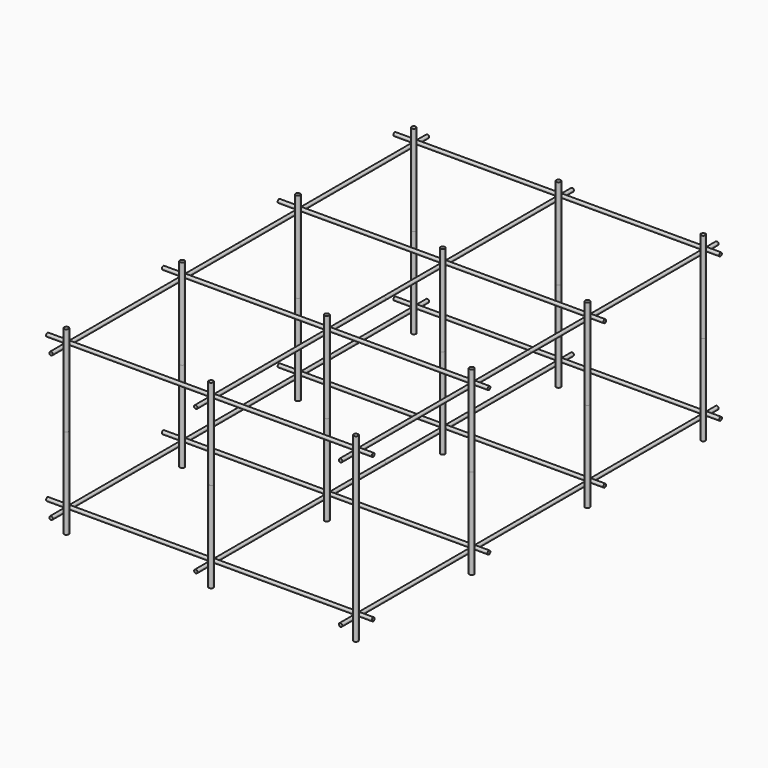
from build123d import *

# Parameters (mm, degrees)
F0_R     = 2.38125
F1_DEPTH = 325
F2_R     = 2.38125
F3_DEPTH = 225
F4_R     = 3.175
F5_DEPTH = 125


with BuildPart() as f1:
    # F0 (on Front) → F1 (new body, symmetric)
    with BuildSketch(Plane.XZ):
        with Locations((-200, 100)):
            Circle(F0_R)
        with Locations((0, 100)):
            Circle(F0_R)
        with Locations((200, 100)):
            Circle(F0_R)
        with Locations((200, -100)):
            Circle(F0_R)
        with Locations((0, -100)):
            Circle(F0_R)
        with Locations((-200, -100)):
            Circle(F0_R)
    extrude(amount=F1_DEPTH, both=True)


with BuildPart() as f3:
    # F2 (on Right) → F3 (new body, symmetric)
    with BuildSketch(Plane.YZ):
        with Locations((-300, 104.7625)):
            Circle(F2_R)
        with Locations((-100, 104.7625)):
            Circle(F2_R)
        with Locations((100, 104.7625)):
            Circle(F2_R)
        with Locations((300, 104.7625)):
            Circle(F2_R)
        with Locations((300, -95.2375)):
            Circle(F2_R)
        with Locations((100, -95.2375)):
            Circle(F2_R)
        with Locations((-100, -95.2375)):
            Circle(F2_R)
        with Locations((-300, -95.2375)):
            Circle(F2_R)
    extrude(amount=F3_DEPTH, both=True)


with BuildPart() as f5:
    # F4 (on Top) → F5 (new body, symmetric)
    with BuildSketch(Plane.XY):
        with Locations((-194.44375, 294.44375)):
            Circle(F4_R)
        with Locations((5.55625, 294.44375)):
            Circle(F4_R)
        with Locations((-194.44375, 94.44375)):
            Circle(F4_R)
        with Locations((5.55625, 94.44375)):
            Circle(F4_R)
        with Locations((-194.44375, -105.55625)):
            Circle(F4_R)
        with Locations((5.55625, -105.55625)):
            Circle(F4_R)
        with Locations((205.55625, 294.44375)):
            Circle(F4_R)
        with Locations((205.55625, 94.44375)):
            Circle(F4_R)
        with Locations((205.55625, -105.55625)):
            Circle(F4_R)
        with Locations((-194.44375, -305.55625)):
            Circle(F4_R)
        with Locations((5.55625, -305.55625)):
            Circle(F4_R)
        with Locations((205.55625, -305.55625)):
            Circle(F4_R)
    extrude(amount=F5_DEPTH, both=True)


solid = Compound([f1.part, f3.part, f5.part])
